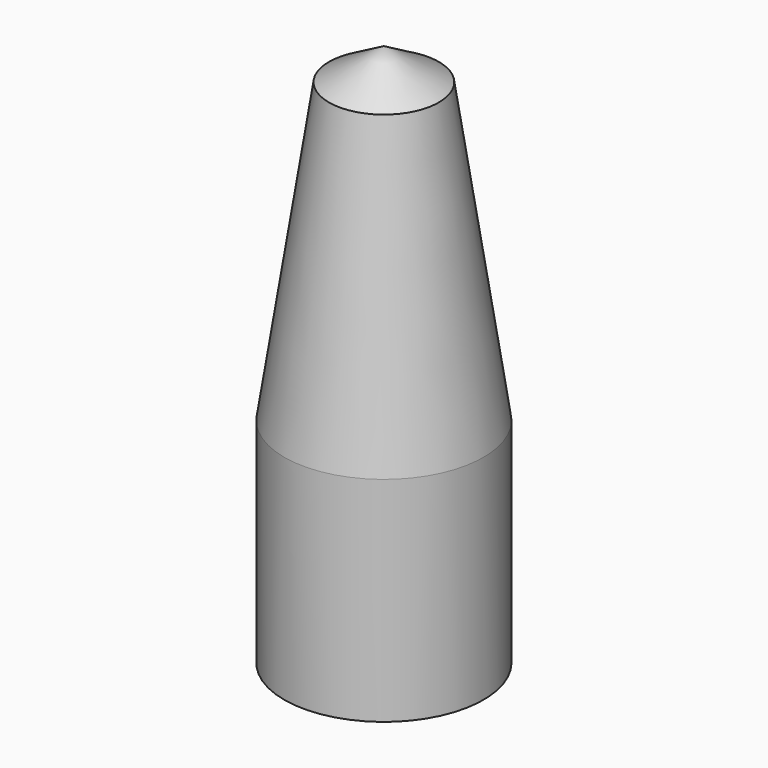
from build123d import *


with BuildPart() as part:
    # Sketch → Revolution (revolve)
    with BuildSketch(Plane.XZ):
        Polygon((-3.861183, 35.925445), (-7, 15), (-7, 0), (-5, 0), (-5, 15), (-2, 35), (0, 36.154701), (0, 38.154701), align=None)
    revolve(axis=Axis((0, 0, 0), (0, 0, 1)))


solid = part.part
